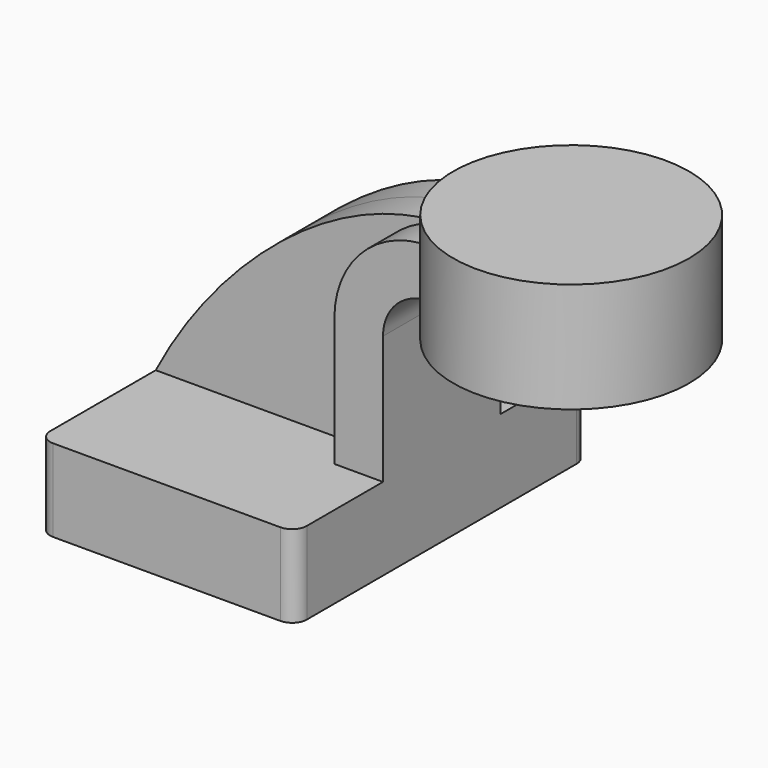
from build123d import *

# Parameters (mm, degrees)
F1_DEPTH = 63.5
F2_DEPTH = 25.4
F3_DEPTH = 12.7
F0_W     = 40.8507403036
F0_H     = 38.1
F5_R     = 5.08


with BuildPart() as f1:
    # F0 (on Front) → F1 (new body, symmetric)
    with BuildSketch(Plane.XZ):
        Polygon((44.45, -14.2875), (44.45, 14.2875), (27.6001971215, 14.2875), (-44.45, 14.2875), (-44.45, -14.2875), align=None)
    extrude(amount=F1_DEPTH, both=True)

    # F0 (on Front) → F2 (join, symmetric)
    with BuildSketch(Plane.XZ):
        with BuildLine():
            Line((27.6001971215, 14.2875), (44.45, 14.2875))
            Line((44.45, 14.2875), (44.45, 58.7375))
            ThreePointArc((44.45, 58.7375), (49.0996798487, 69.9628201513), (60.325, 74.6125))
            Line((60.325, 74.6125), (66.6749985714, 74.6125))
            Line((66.6749985714, 74.6125), (66.6749985714, 91.4623028785))
            Line((66.6749985714, 91.4623028785), (60.325, 91.4623028785))
            ThreePointArc((60.325, 91.4623028785), (37.1850699716, 81.8774300284), (27.6001971215, 58.7375))
            Line((27.6001971215, 58.7375), (27.6001971215, 14.2875))
        make_face()
        Polygon((66.6749985714, 91.4623028785), (66.6749985714, 74.6125), (66.6749985714, 61.9125), (89.3242582679, 61.9125), (89.3242582679, 100.0125), (66.6749985714, 100.0125), align=None)
    extrude(amount=F2_DEPTH, both=True)

    # F0 (on Front) → F3 (join, symmetric)
    with BuildSketch(Plane.XZ):
        with BuildLine():
            Line((-44.45, 14.2875), (27.6001971215, 14.2875))
            Line((27.6001971215, 14.2875), (27.6001971215, 58.7375))
            ThreePointArc((27.6001971215, 58.7375), (37.1850699716, 81.8774300284), (60.325, 91.4623028785))
            add(Edge.make_bspline(
                [(-44.45, 14.2875), (-23.5856175423, 54.6985641122), (19.0692264587, 93.3388397098), (60.325, 91.4623028785)],
                knots=[0, 0, 0, 0, 130.1297461165, 130.1297461165, 130.1297461165, 130.1297461165], degree=3))
        make_face()
    extrude(amount=F3_DEPTH, both=True)

    # F0 (on Front) → F4 (revolve)
    with BuildSketch(Plane.XZ):
        with Locations((109.7496284197, 80.9625)):
            Rectangle(F0_W, F0_H)
    revolve(axis=Axis((89.3242582679, 0, 80.9625), (0, 0, 1)))

    # F5
    f5_edges = [f1.edges().sort_by_distance(p)[0] for p in [
        (44.45, -63.5, 0),
        (-44.45, -63.5, 0),
        (44.45, 63.5, 0),
        (-44.45, 63.5, 0),
    ]]
    fillet(f5_edges, radius=F5_R)


solid = f1.part
